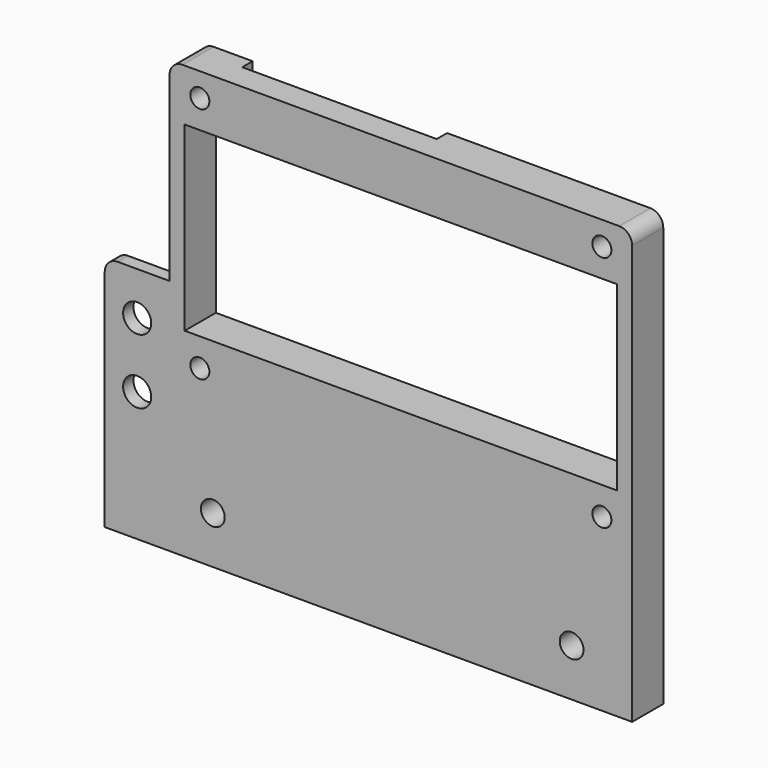
from build123d import *

# Parameters (mm, degrees)
SKETCH_W     = 107
SKETCH_H     = 100
SKETCH_R     = 2.2
SKETCH_R_2   = 2.75
SKETCH_W_2   = 100
SKETCH_H_2   = 42
PAD_DEPTH    = 9
SKETCH001_W  = 45
SKETCH001_H  = 9
POCKET_DEPTH = 3
SKETCH004_W  = 15
SKETCH004_H  = 55
SKETCH004_R  = 3.25
PAD002_DEPTH = 3
FILLET_R     = 3


with BuildPart() as part:
    # Sketch → Pad (new body)
    with BuildSketch(Plane.XZ):
        with Locations((53.5, 30)):
            Rectangle(SKETCH_W, SKETCH_H)
        with Locations((7, 19.5)):
            Circle(SKETCH_R, mode=Mode.SUBTRACT)
        with Locations((100, 19.5)):
            Circle(SKETCH_R, mode=Mode.SUBTRACT)
        with Locations((7, 74.5)):
            Circle(SKETCH_R, mode=Mode.SUBTRACT)
        with Locations((100, 74.5)):
            Circle(SKETCH_R, mode=Mode.SUBTRACT)
        with Locations((10, -9)):
            Circle(SKETCH_R_2, mode=Mode.SUBTRACT)
        with Locations((93, -9)):
            Circle(SKETCH_R_2, mode=Mode.SUBTRACT)
        with Locations((53.5, 47)):
            Rectangle(SKETCH_W_2, SKETCH_H_2, mode=Mode.SUBTRACT)
    extrude(amount=PAD_DEPTH)

    # Sketch001 → Pocket (cut)
    with BuildSketch(Plane.XZ):
        with Locations((34.5, 75.5)):
            Rectangle(SKETCH001_W, SKETCH001_H)
    extrude(amount=POCKET_DEPTH, mode=Mode.SUBTRACT)

    # Sketch004 → Pad002 (join)
    with BuildSketch(Plane(origin=(0, -9, -10), x_dir=(1, 0, 0), z_dir=(0, -1, 0))):
        with Locations((-7.5, 17.5)):
            Rectangle(SKETCH004_W, SKETCH004_H)
        with Locations((-7.5, 20)):
            Circle(SKETCH004_R, mode=Mode.SUBTRACT)
        with Locations((-7.5, 35)):
            Circle(SKETCH004_R, mode=Mode.SUBTRACT)
    extrude(amount=-PAD002_DEPTH)

    # Fillet
    fillet_edges = [part.edges().sort_by_distance(p)[0] for p in [
        (0, -4.5, 80),
        (-15, -7.5, 35),
        (107, -4.5, 80),
    ]]
    fillet(fillet_edges, radius=FILLET_R)


solid = part.part
